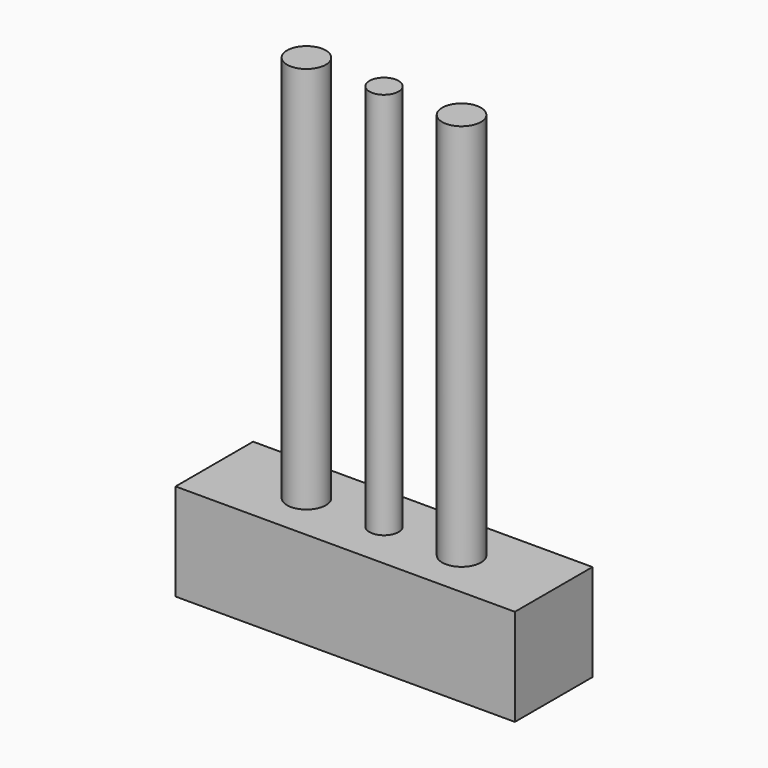
from build123d import *

# Parameters (mm, degrees)
F0_R     = 2
F0_R_2   = 1.5
F1_DEPTH = 50
F2_W     = 35
F2_H     = 10
F3_DEPTH = 10


with BuildPart() as f1:
    # F0 (on Top) → F1 (new body)
    with BuildSketch(Plane.XY):
        with Locations((9.5, 0)):
            Circle(F0_R)
        with Locations((17.5, 0)):
            Circle(F0_R_2)
        with Locations((25.5, 0)):
            Circle(F0_R)
    extrude(amount=F1_DEPTH)


with BuildPart() as f3:
    # F2 (on Top) → F3 (new body)
    with BuildSketch(Plane.XY):
        with Locations((17.5, 0)):
            Rectangle(F2_W, F2_H)
    extrude(amount=F3_DEPTH)


solid = Compound([f1.part, f3.part])
